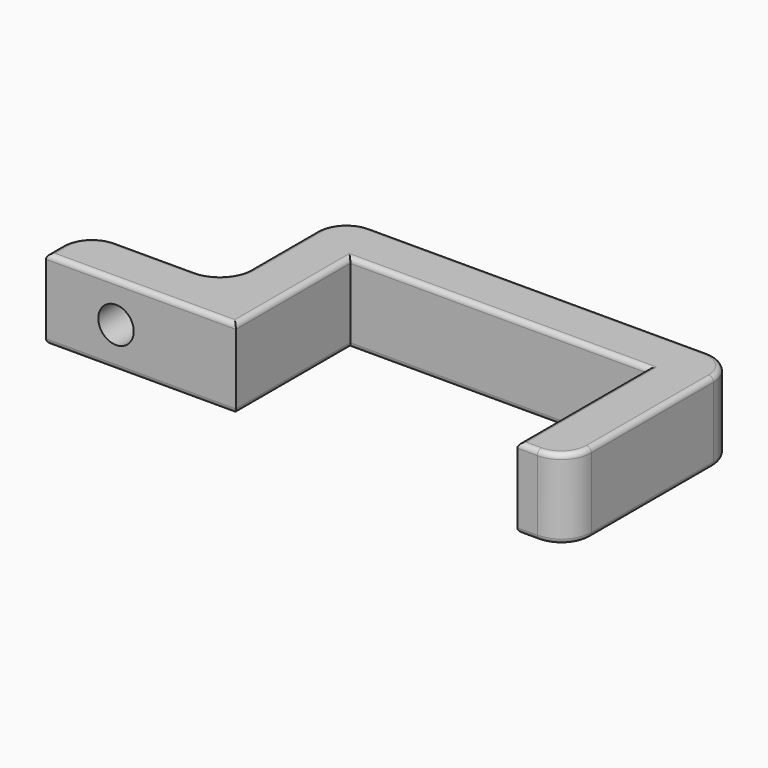
from build123d import *

# Parameters (mm, degrees)
F1_DEPTH = 4
F2_R     = 1.775795
F3_DEPTH = 6.966509
F4_R     = 0.5


with BuildPart() as f1:
    # F0 (on Top) → F1 (new body, symmetric)
    with BuildSketch(Plane.XY):
        with BuildLine():
            Line((-33.881166, 2), (-33.881166, 0))
            Line((-33.881166, 0), (-14.881166, 0))
            Line((-14.881166, 0), (-14.881166, 14.3338))
            Line((-14.881166, 14.3338), (14.881166, 14.3338))
            Line((14.881166, 14.3338), (14.881166, -1.965509))
            Line((14.881166, -1.965509), (16.881166, -1.965509))
            ThreePointArc((16.881166, -1.965509), (19.002486, -1.08683), (19.881166, 1.034491))
            Line((19.881166, 1.034491), (19.881166, 16.3338))
            ThreePointArc((19.881166, 16.3338), (19.002486, 18.45512), (16.881166, 19.3338))
            Line((16.881166, 19.3338), (-16.881166, 19.3338))
            ThreePointArc((-16.881166, 19.3338), (-19.002486, 18.45512), (-19.881166, 16.3338))
            Line((-19.881166, 16.3338), (-19.881166, 8))
            ThreePointArc((-19.881166, 8), (-20.759845, 5.87868), (-22.881166, 5))
            Line((-22.881166, 5), (-30.881166, 5))
            ThreePointArc((-30.881166, 5), (-33.002486, 4.12132), (-33.881166, 2))
        make_face()
    extrude(amount=F1_DEPTH, both=True)

    # F2 (on face) → F3 (cut, through all)
    with BuildSketch(Plane(origin=(0, 5, 0), x_dir=(-1, 0, 0), z_dir=(0, 1, 0))):
        with Locations((26.881166, 0)):
            Circle(F2_R)
    extrude(amount=-F3_DEPTH, mode=Mode.SUBTRACT)

    # F4
    f4_edges = [f1.edges().sort_by_distance(p)[0] for p in [
        (-33.881166, 1, 4),
        (-24.381166, 0, 4),
        (-14.881166, 7.1669, 4),
        (0, 14.3338, 4),
        (14.881166, 6.184145, 4),
        (15.881166, -1.965509, 4),
        (19.002486, -1.08683, 4),
        (19.881166, 8.684145, 4),
        (19.002486, 18.45512, 4),
        (0, 19.3338, 4),
        (-19.002486, 18.45512, 4),
        (-19.881166, 12.1669, 4),
        (-20.759845, 5.87868, 4),
        (-26.881166, 5, 4),
        (-33.002486, 4.12132, 4),
        (-33.881166, 1, -4),
        (-24.381166, 0, -4),
        (-14.881166, 7.1669, -4),
        (0, 14.3338, -4),
        (14.881166, 6.184145, -4),
        (15.881166, -1.965509, -4),
        (19.002486, -1.08683, -4),
        (19.881166, 8.684145, -4),
        (19.002486, 18.45512, -4),
        (0, 19.3338, -4),
        (-19.002486, 18.45512, -4),
        (-19.881166, 12.1669, -4),
        (-20.759845, 5.87868, -4),
        (-26.881166, 5, -4),
        (-33.002486, 4.12132, -4),
    ]]
    fillet(f4_edges, radius=F4_R)


solid = f1.part
